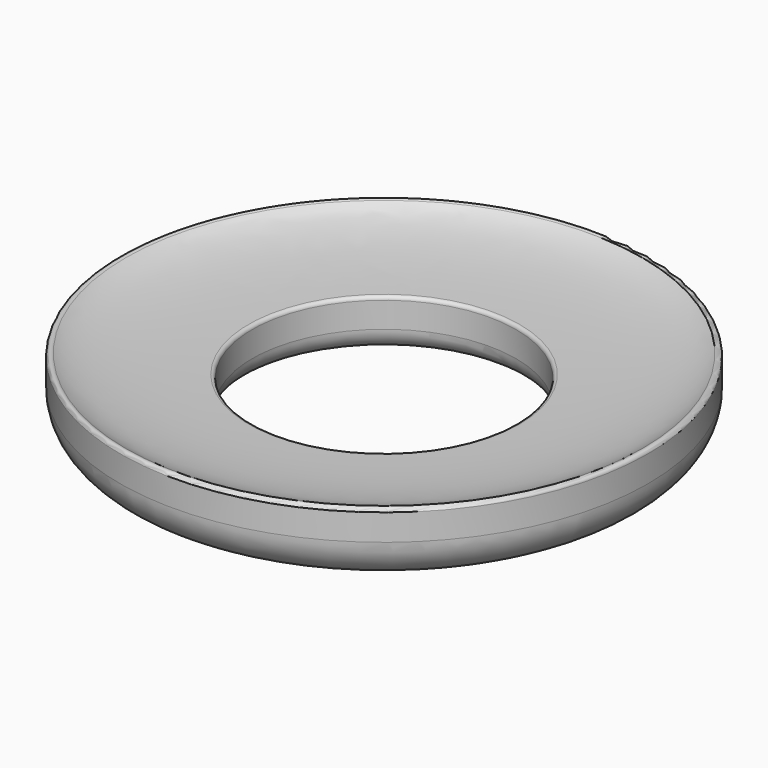
from build123d import *


with BuildPart() as f1:
    # F0 (on Front) → F1 (revolve)
    with BuildSketch(Plane.XZ):
        with BuildLine():
            ThreePointArc((19.05, 3.175), (19.979936, 0.929936), (22.225, 0))
            Line((22.225, 0), (32.258, 0))
            ThreePointArc((32.258, 0), (36.388918, 1.711082), (38.1, 5.842))
            Line((38.1, 5.842), (38.1, 9.650897))
            ThreePointArc((38.1, 9.650897), (37.819646, 10.105035), (37.288026, 10.057915))
            add(Edge.make_bspline(
                [(37.288026, 10.057915), (34.82722, 8.220108), (27.981587, 7.651321), (19.540988, 7.368505)],
                knots=[3.140852, 3.140852, 3.140852, 3.140852, 23.652781, 23.652781, 23.652781, 23.652781], degree=3))
            ThreePointArc((19.540988, 7.368505), (19.192825, 7.213935), (19.05, 6.86079))
            Line((19.05, 6.86079), (19.05, 3.175))
        make_face()
    revolve(axis=Axis((0, 0, 5.49747), (0, 0, -1)))


solid = f1.part
